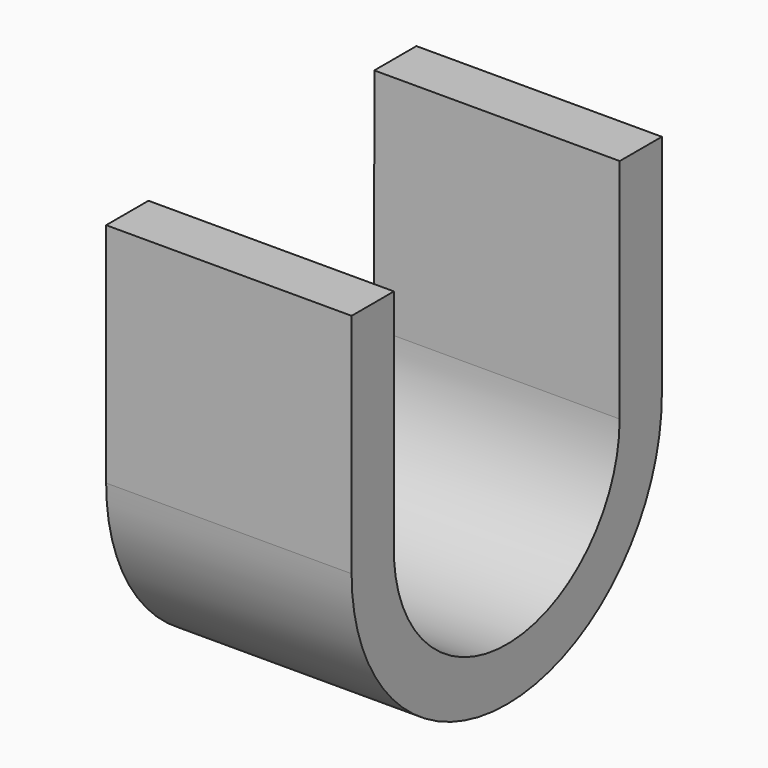
from build123d import *

# Parameters (mm, degrees)
F1_DEPTH = 20


with BuildPart() as f1:
    # F0 (on Right) → F1 (new body)
    with BuildSketch(Plane.YZ):
        with BuildLine():
            Line((-67.889755, 30.914439), (-67.889755, 12.414439))
            ThreePointArc((-67.889755, 12.414439), (-52.089755, -3.385561), (-36.289755, 12.414439))
            Line((-36.289755, 12.414439), (-36.289755, 30.914439))
            Line((-36.289755, 30.914439), (-40.57888, 30.914439))
            Line((-40.57888, 30.914439), (-40.589755, 12.414439))
            ThreePointArc((-40.589755, 12.414439), (-52.339814, 0.917158), (-63.57888, 12.914439))
            Line((-63.57888, 12.914439), (-63.57888, 30.914439))
            Line((-63.57888, 30.914439), (-67.889755, 30.914439))
        make_face()
    extrude(amount=F1_DEPTH)


solid = f1.part
